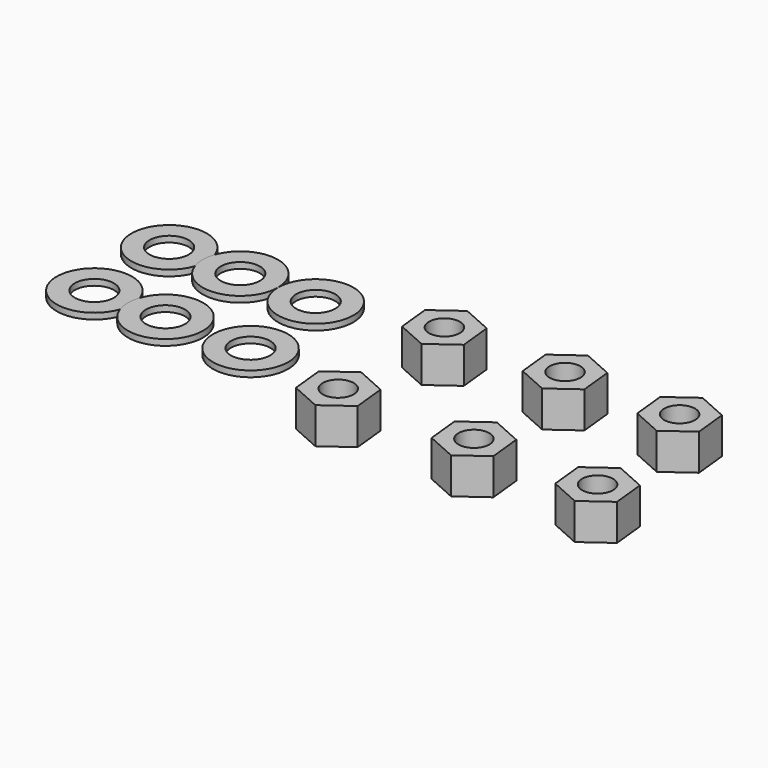
from build123d import *

# Parameters (mm, degrees)
F0_R     = 12.5
F0_R_2   = 6.5
F1_DEPTH = 2
F7_R     = 5.125
F8_DEPTH = 12


with BuildPart() as f1:
    # F0 (on Top) → F1 (new body)
    with BuildSketch(Plane.XY):
        with Locations((-126.142323, 20.371085)):
            Circle(F0_R)
        with Locations((-126.142323, 20.371085)):
            Circle(F0_R_2, mode=Mode.SUBTRACT)
    extrude(amount=F1_DEPTH)


with BuildPart() as f2_1:
    # F2: copy of F1
    add(f1.part.moved(Location((23.6, 0, 0))))


with BuildPart() as f3_1:
    # F3: copy of F1
    add(f1.part.moved(Location((0, 31, 0))))


with BuildPart() as f4_1:
    # F4: copy of F2_1
    add(f2_1.part.moved(Location((0, 31, 0))))


with BuildPart() as f5_1:
    # F5: copy of F4_1
    add(f4_1.part.moved(Location((25, 0, 0))))


with BuildPart() as f6_1:
    # F6: copy of F2_1
    add(f2_1.part.moved(Location((28.2, 0, 0))))


with BuildPart() as f8:
    # F7 (on Top) → F8 (new body)
    with BuildSketch(Plane.XY):
        Polygon((-29.294726, 34.911139), (-20.414112, 41.350706), (-21.550634, 52.261327), (-31.56777, 56.732381), (-40.448384, 50.292814), (-39.311862, 39.382193), align=None)
        with Locations((-30.431248, 45.82176)):
            Circle(F7_R, mode=Mode.SUBTRACT)
    extrude(amount=F8_DEPTH)


with BuildPart() as f9_1:
    # F9: copy of F8
    add(f8.part.moved(Location((0, -44, 0))))


with BuildPart() as f10_1:
    # F10: copy of F9_1
    add(f9_1.part.moved(Location((45, 0, 0))))


with BuildPart() as f11_1:
    # F11: copy of F8
    add(f8.part.moved(Location((40, 0, 0))))


with BuildPart() as f12_1:
    # F12: copy of F10_1
    add(f10_1.part.moved(Location((41, 0, 0))))


with BuildPart() as f13_1:
    # F13: copy of F11_1
    add(f11_1.part.moved(Location((38, 0, 0))))


solid = Compound([f1.part, f2_1.part, f3_1.part, f4_1.part, f5_1.part, f6_1.part, f8.part, f9_1.part, f10_1.part, f11_1.part, f12_1.part, f13_1.part])
